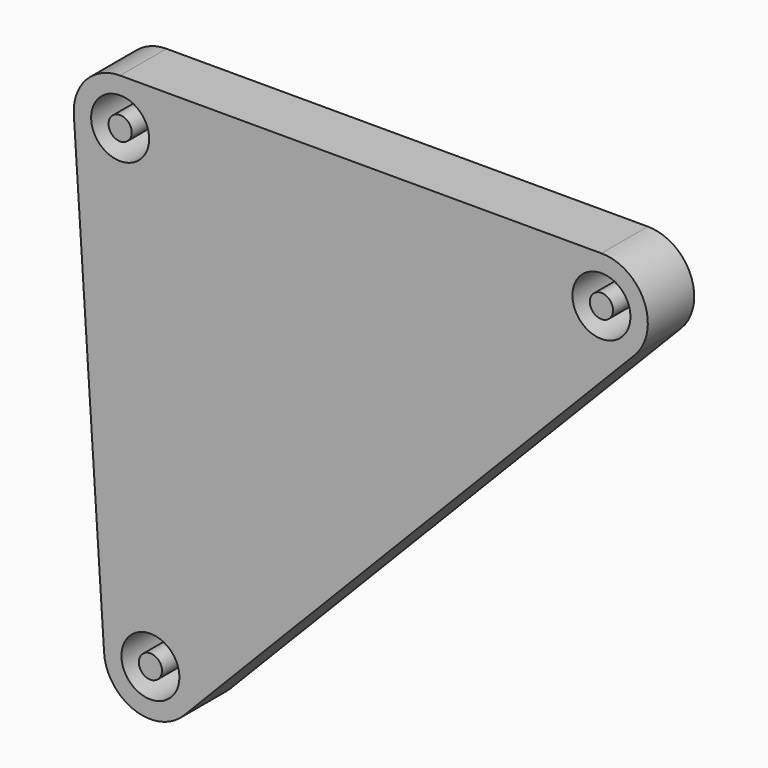
from build123d import *

# Parameters (mm, degrees)
F0_R     = 2.5
F0_R_2   = 1
F1_DEPTH = 5


with BuildPart() as f1:
    # F0 (on Front) → F1 (new body)
    with BuildSketch(Plane.XZ):
        with BuildLine():
            ThreePointArc((-15.71, 6.74), (-18.629035, 5.474819), (-19.701516, 2.479619))
            Line((-19.701516, 2.479619), (-17.091516, -37.530381))
            ThreePointArc((-17.091516, -37.530381), (-14.482975, -41.023316), (-10.231712, -40.057996))
            Line((-10.231712, -40.057996), (28.658288, -0.047996))
            ThreePointArc((28.658288, -0.047996), (29.474561, 4.296922), (25.79, 6.74))
            Line((25.79, 6.74), (-15.71, 6.74))
        make_face()
        with Locations((-13.1, -37.27)):
            Circle(F0_R, mode=Mode.SUBTRACT)
        with Locations((-15.71, 2.74)):
            Circle(F0_R, mode=Mode.SUBTRACT)
        with Locations((25.79, 2.74)):
            Circle(F0_R, mode=Mode.SUBTRACT)
        with Locations((-15.71, 2.74)):
            Circle(F0_R_2)
        with Locations((25.79, 2.74)):
            Circle(F0_R_2)
        with Locations((-13.1, -37.27)):
            Circle(F0_R_2)
    extrude(amount=F1_DEPTH)


solid = f1.part
